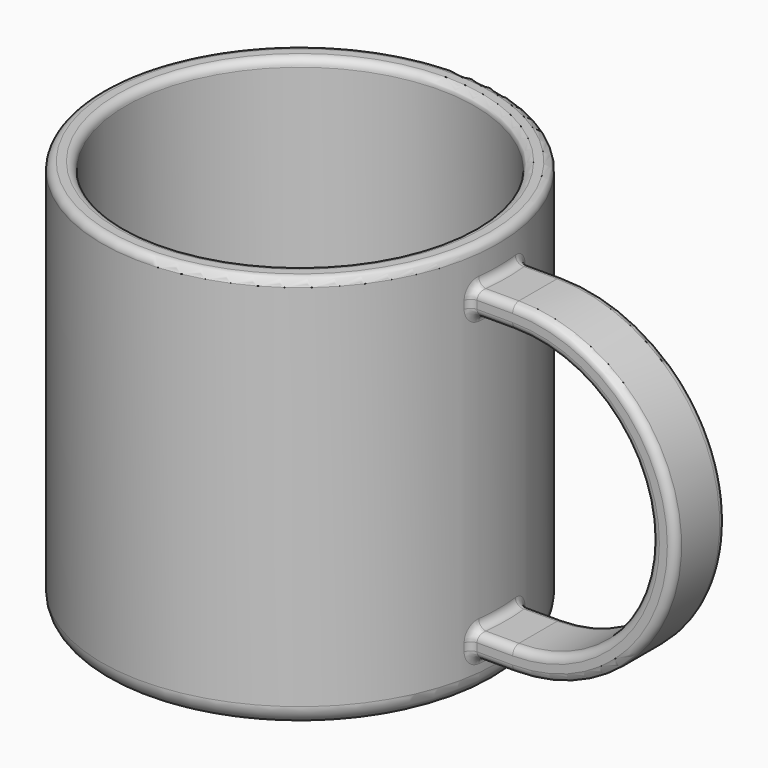
from build123d import *

# Parameters (mm, degrees)
SKETCH_R     = 50
PAD_DEPTH    = 100
PAD001_DEPTH = 8
SKETCH002_R  = 44
POCKET_DEPTH = 96.001
FILLET_R     = 5
FILLET001_R  = 2
FILLET002_R  = 2


with BuildPart() as part:
    # Sketch → Pad (new body)
    with BuildSketch(Plane.XY):
        Circle(SKETCH_R)
    extrude(amount=PAD_DEPTH)

    # Sketch001 → Pad001 (join, symmetric)
    with BuildSketch(Plane.XZ):
        with BuildLine():
            Line((0, 91), (60, 91))
            ThreePointArc((60, 9), (101, 50), (60, 91))
            Line((60, 9), (0, 9))
            Line((0, 9), (0, 15))
            Line((0, 15), (60, 15))
            ThreePointArc((60, 15), (95, 50), (60, 85))
            Line((60, 85), (0, 85))
            Line((0, 85), (0, 91))
        make_face()
    extrude(amount=PAD001_DEPTH, both=True)

    # Sketch002 (on DatumPlane) → Pocket (cut, through all)
    with BuildSketch(Plane.XY.offset(4)):
        Circle(SKETCH002_R)
    extrude(amount=POCKET_DEPTH, mode=Mode.SUBTRACT)

    # Fillet
    fillet_edges = [part.edges().sort_by_distance(p)[0] for p in [
        (-50, 0, 0),
    ]]
    fillet(fillet_edges, radius=FILLET_R)

    # Fillet001
    fillet001_edges = [part.edges().sort_by_distance(p)[0] for p in [
        (-44, 0, 4),
        (-50, 0, 100),
        (-44, 0, 100),
    ]]
    fillet(fillet001_edges, radius=FILLET001_R)

    # Fillet002
    fillet002_edges = [part.edges().sort_by_distance(p)[0] for p in [
        (49.838703, -4.012946, 91),
        (49.355851, 8, 88),
        (49.355851, -8, 88),
        (49.838703, -4.012946, 85),
        (95, -8, 50),
        (95, 8, 50),
        (101, 8, 50),
        (101, -8, 50),
        (49.838703, -4.012946, 15),
        (49.355851, -8, 12),
        (49.838703, -4.012946, 9),
        (49.355851, 8, 12),
    ]]
    fillet(fillet002_edges, radius=FILLET002_R)


solid = part.part
